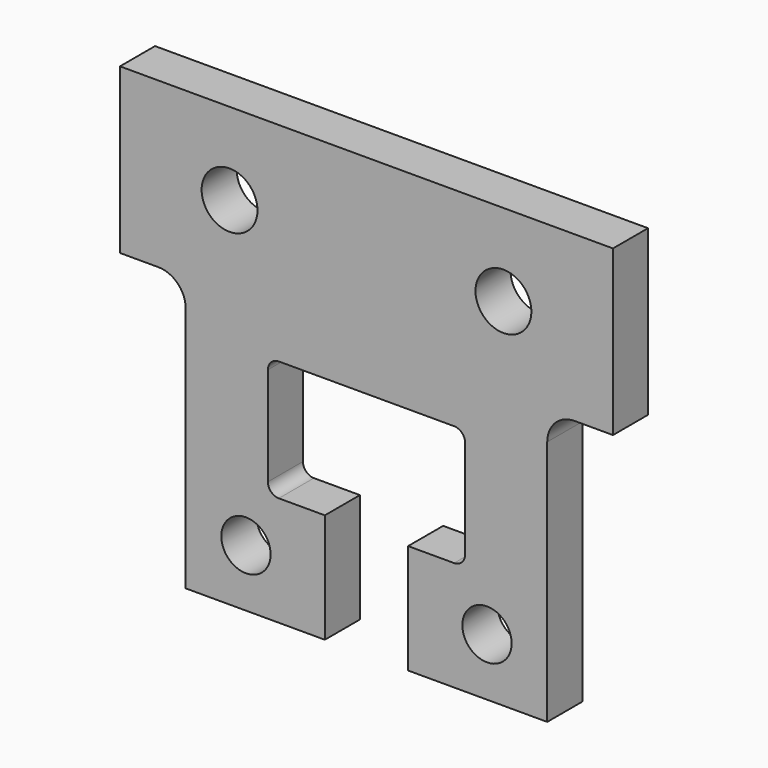
from build123d import *

# Parameters (mm, degrees)
F0_R     = 4.5
F0_R_2   = 5.1
F1_DEPTH = 8


with BuildPart() as f1:
    # F0 (on Front) → F1 (new body)
    with BuildSketch(Plane.XZ):
        with BuildLine():
            Line((0, -38), (0, 0))
            Line((0, 0), (-45, 0))
            Line((-45, 0), (-45, -30))
            Line((-45, -30), (-38, -30))
            ThreePointArc((-38, -30), (-34.464466, -31.464466), (-33, -35))
            Line((-33, -35), (-33, -80))
            Line((-33, -80), (-7.6, -80))
            Line((-7.6, -80), (-7.6, -60))
            Line((-7.6, -60), (-16, -60))
            ThreePointArc((-16, -60), (-17.414214, -59.414214), (-18, -58))
            Line((-18, -58), (-18, -40))
            ThreePointArc((-18, -40), (-17.414214, -38.585786), (-16, -38))
            Line((-16, -38), (0, -38))
        make_face()
        with Locations((-22, -69.5)):
            Circle(F0_R, mode=Mode.SUBTRACT)
        with Locations((-25, -15)):
            Circle(F0_R_2, mode=Mode.SUBTRACT)
    extrude(amount=F1_DEPTH)

    # F2: F1 across face


with BuildPart() as f1_1:
    add(f1.part)
    add(f1.part.mirror(Plane(origin=(0, -4, -19), x_dir=(0, 1, 0), z_dir=(1, 0, 0))))


solid = f1_1.part
